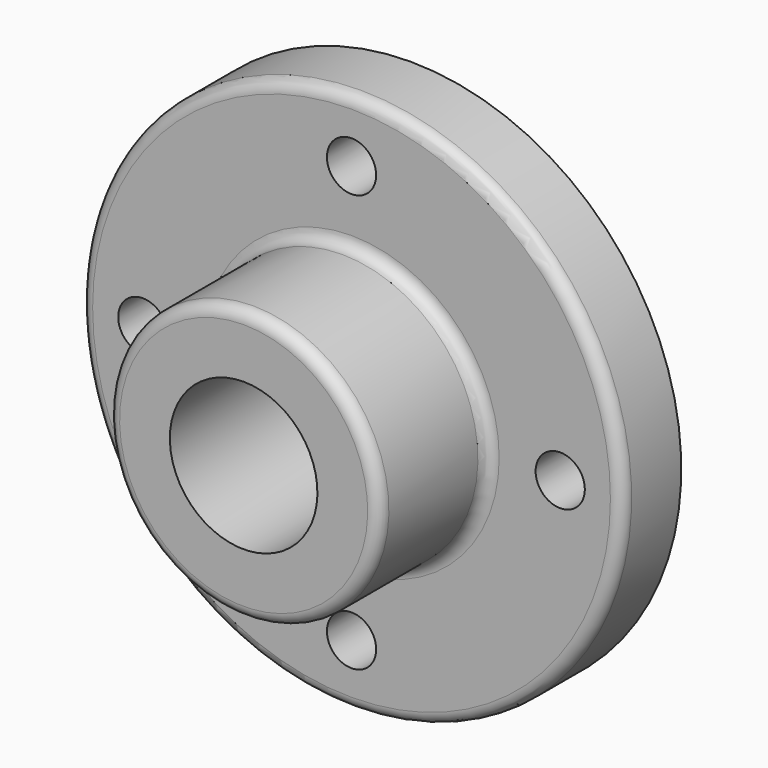
from build123d import *

# Parameters (mm, degrees)
F2_R     = 6.35
F3_DEPTH = 19.051


with BuildPart() as f1:
    # F0 (on Right) → F1 (revolve)
    with BuildSketch(Plane.YZ):
        with BuildLine():
            Line((0, 32.004), (0, 19.0373))
            Line((0, 19.0373), (53.848, 19.0373))
            Line((53.848, 19.0373), (53.848, 69.85))
            Line((53.848, 69.85), (37.846, 69.85))
            ThreePointArc((37.846, 69.85), (35.690739, 68.957261), (34.798, 66.802))
            Line((34.798, 66.802), (34.798, 38.1))
            ThreePointArc((34.798, 38.1), (33.905261, 35.944739), (31.75, 35.052))
            Line((31.75, 35.052), (3.048, 35.052))
            ThreePointArc((3.048, 35.052), (0.892739, 34.159261), (0, 32.004))
        make_face()
    revolve(axis=Axis((0, 18.799335, 0), (0, 1, 0)))

    # F2 (on face) → F3 (cut, through all)
    with BuildSketch(Plane.XZ.offset(-34.798)):
        with Locations((-53.848, 0)):
            Circle(F2_R)
        with Locations((0, -53.848)):
            Circle(F2_R)
        with Locations((0, 53.848)):
            Circle(F2_R)
        with Locations((53.848, 0)):
            Circle(F2_R)
    extrude(amount=-F3_DEPTH, mode=Mode.SUBTRACT)


solid = f1.part
